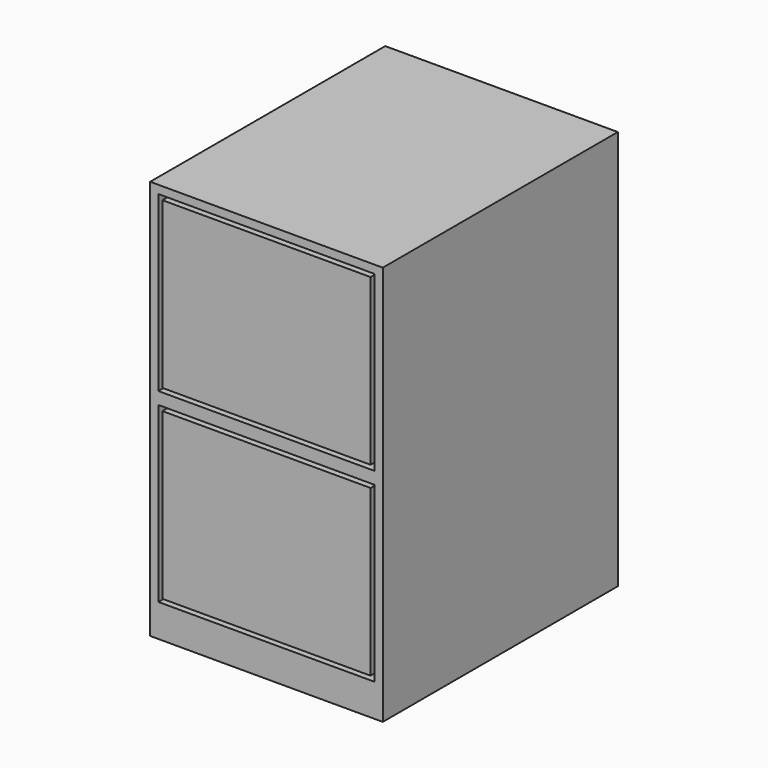
from build123d import *

# Parameters (mm, degrees)
F0_W     = 361.95
F0_H     = 622.3
F1_DEPTH = 228.6
F2_W     = 336.55
F2_H     = 269.875
F2_W_2   = 323.85
F2_H_2   = 257.175
F3_DEPTH = 25.4


with BuildPart() as f1:
    # F0 (on Front) → F1 (new body, symmetric)
    with BuildSketch(Plane.XZ):
        Rectangle(F0_W, F0_H)
    extrude(amount=F1_DEPTH, both=True)

    # F2 (on face) → F3 (cut)
    with BuildSketch(Plane.XZ.offset(228.6)):
        with Locations((0, 163.5125)):
            Rectangle(F2_W, F2_H)
        with Locations((0, 163.5125)):
            Rectangle(F2_W_2, F2_H_2, mode=Mode.SUBTRACT)
        with Locations((0, -125.4125)):
            Rectangle(F2_W, F2_H)
        with Locations((0, -125.4125)):
            Rectangle(F2_W_2, F2_H_2, mode=Mode.SUBTRACT)
    extrude(amount=-F3_DEPTH, mode=Mode.SUBTRACT)


solid = f1.part
